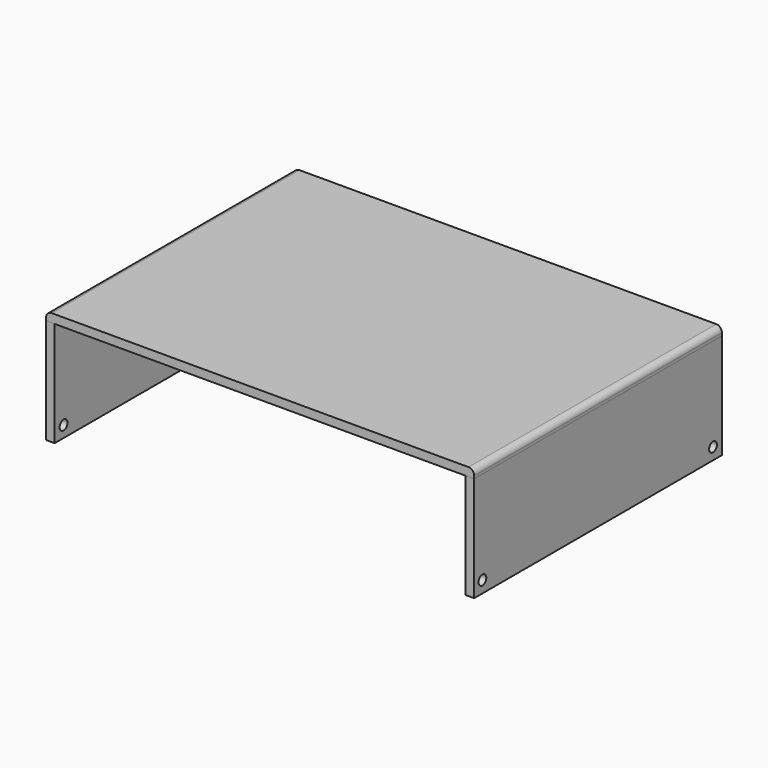
from build123d import *

# Parameters (mm, degrees)
SKETCH010_W     = 150
SKETCH010_H     = 108.5
PAD004_DEPTH    = 3
SKETCH011_W     = 3
SKETCH011_H     = 108.5
PAD005_DEPTH    = 36.8
SKETCH014_R     = 1.7
POCKET006_DEPTH = 5
SKETCH015_R     = 1.7
POCKET007_DEPTH = 5
POCKET010_DEPTH = 5
FILLET_R        = 2


with BuildPart() as part:
    # Sketch010 → Pad004 (new body)
    with BuildSketch(Plane.XY):
        with Locations((100.092897, -83.705943)):
            Rectangle(SKETCH010_W, SKETCH010_H)
    extrude(amount=PAD004_DEPTH)

    # Sketch011 (on Face5 of Pad004) → Pad005 (join)
    with BuildSketch(Plane(origin=(0, 0, 0), x_dir=(1, 0, 0), z_dir=(0, 0, -1))):
        with Locations((173.592904, 83.705948)):
            Rectangle(SKETCH011_W, SKETCH011_H)
        with Locations((26.592904, 83.705948)):
            Rectangle(SKETCH011_W, SKETCH011_H)
    extrude(amount=PAD005_DEPTH)

    # Sketch014 (on Face15 of Pad005) → Pocket006 (cut)
    with BuildSketch(Plane.YZ.offset(175.092904)):
        with Locations((-134.353821, -32.656531)):
            Circle(SKETCH014_R)
        with Locations((-33.353821, -32.656531)):
            Circle(SKETCH014_R)
    extrude(amount=-POCKET006_DEPTH, mode=Mode.SUBTRACT)

    # Sketch015 (on Face13 of Pocket006) → Pocket007 (cut)
    with BuildSketch(Plane(origin=(25.092904, 0, 0), x_dir=(0, -1, 0), z_dir=(-1, 0, 0))):
        with Locations((33.054447, -32.772871)):
            Circle(SKETCH015_R)
        with Locations((134.054447, -32.772871)):
            Circle(SKETCH015_R)
    extrude(amount=-POCKET007_DEPTH, mode=Mode.SUBTRACT)

    # Sketch018 (on Face13 of Pocket007) → Pocket010 (cut)
    with BuildSketch(Plane(origin=(25.092904, 0, 0), x_dir=(0, -1, 0), z_dir=(-1, 0, 0))):
        with BuildLine():
            ThreePointArc((48.372218, -10.337513), (46.972218, -8.937513), (45.572218, -10.337513))
            Line((45.572218, -10.337513), (45.572218, -26.337513))
            ThreePointArc((45.572218, -26.337513), (46.972218, -27.737513), (48.372218, -26.337513))
            Line((48.372218, -10.337513), (48.372218, -26.337513))
        make_face()
        with BuildLine():
            ThreePointArc((52.872218, -10.337513), (51.472218, -8.937513), (50.072218, -10.337513))
            Line((50.072218, -10.337513), (50.072218, -26.337513))
            ThreePointArc((50.072218, -26.337513), (51.472218, -27.737513), (52.872218, -26.337513))
            Line((52.872218, -10.337513), (52.872218, -26.337513))
        make_face()
        with BuildLine():
            ThreePointArc((57.372218, -10.337513), (55.972218, -8.937513), (54.572218, -10.337513))
            Line((54.572218, -10.337513), (54.572218, -26.337513))
            ThreePointArc((54.572218, -26.337513), (55.972218, -27.737513), (57.372218, -26.337513))
            Line((57.372218, -10.337513), (57.372218, -26.337513))
        make_face()
        with BuildLine():
            ThreePointArc((61.872218, -10.337513), (60.472218, -8.937513), (59.072218, -10.337513))
            Line((59.072218, -10.337513), (59.072218, -26.337513))
            ThreePointArc((59.072218, -26.337513), (60.472218, -27.737513), (61.872218, -26.337513))
            Line((61.872218, -10.337513), (61.872218, -26.337513))
        make_face()
        with BuildLine():
            ThreePointArc((66.372218, -10.337513), (64.972218, -8.937513), (63.572218, -10.337513))
            Line((63.572218, -10.337513), (63.572218, -26.337513))
            ThreePointArc((63.572218, -26.337513), (64.972218, -27.737513), (66.372218, -26.337513))
            Line((66.372218, -10.337513), (66.372218, -26.337513))
        make_face()
        with BuildLine():
            ThreePointArc((70.872218, -10.337513), (69.472218, -8.937513), (68.072218, -10.337513))
            Line((68.072218, -10.337513), (68.072218, -26.337513))
            ThreePointArc((68.072218, -26.337513), (69.472218, -27.737513), (70.872218, -26.337513))
            Line((70.872218, -10.337513), (70.872218, -26.337513))
        make_face()
    extrude(amount=-POCKET010_DEPTH, mode=Mode.SUBTRACT)

    # Fillet
    fillet_edges = [part.edges().sort_by_distance(p)[0] for p in [
        (25.092897, -83.705943, 3),
        (175.092897, -83.705943, 3),
    ]]
    fillet(fillet_edges, radius=FILLET_R)


solid = part.part
